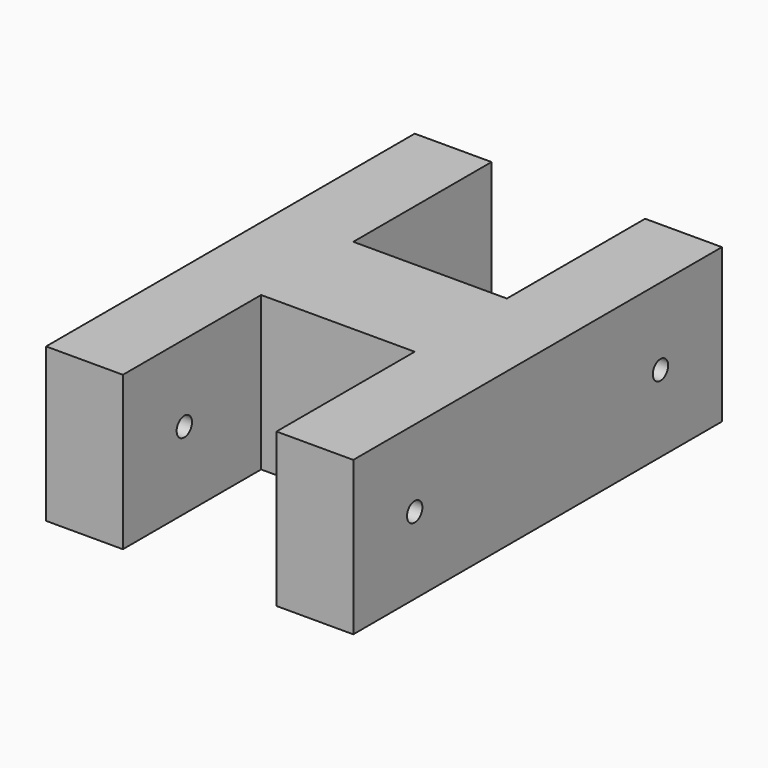
from build123d import *

# Parameters (mm, degrees)
PAD_DEPTH         = 20
SKETCH001_R       = 2.5
POCKET_DEPTH      = 80.001
POCKET_DEPTH_BACK = -0.001


with BuildPart() as part:
    # Sketch → Pad (new body, symmetric)
    with BuildSketch(Plane.XY):
        Polygon((-40, 60), (-20, 60), (-20, 15), (20, 15), (20, 60), (40, 60), (40, -60), (20, -60), (20, -15), (-20, -15), (-20, -60), (-40, -60), align=None)
    extrude(amount=PAD_DEPTH, both=True)

    # Sketch001 → Pocket (cut, two sides)
    with BuildSketch(Plane.YZ.offset(40)) as pocket_sk:
        with Locations((-40, 0)):
            Circle(SKETCH001_R)
        with Locations((40, 0)):
            Circle(SKETCH001_R)
    extrude(amount=-POCKET_DEPTH, mode=Mode.SUBTRACT)
    extrude(pocket_sk.sketch, amount=-POCKET_DEPTH_BACK, mode=Mode.SUBTRACT)


solid = part.part
